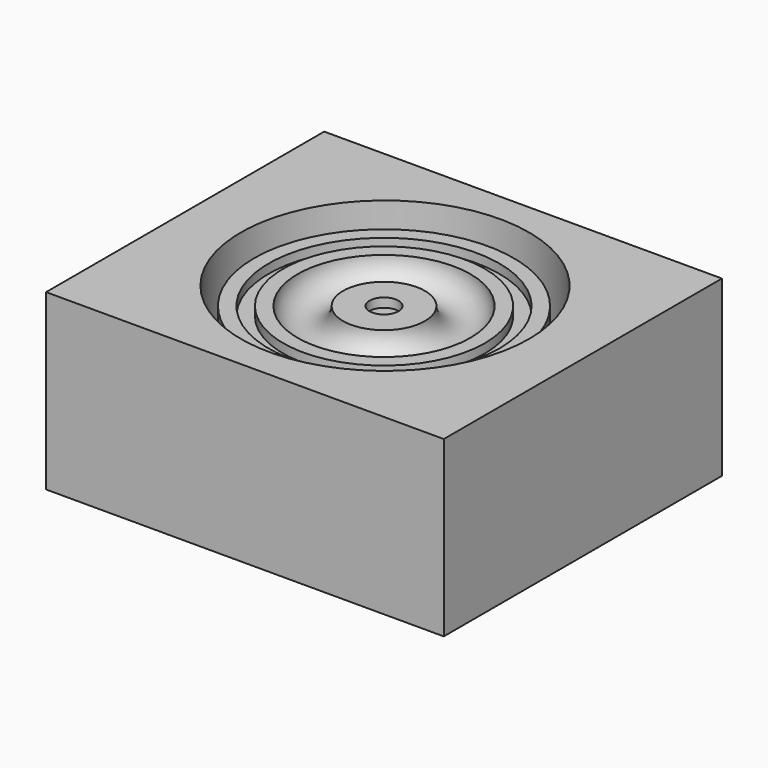
from build123d import *

# Parameters (mm, degrees)
SKETCH003_W = 87.46
SKETCH003_H = 76.45
SKETCH003_R = 31.7
PAD_DEPTH   = 38.21


with BuildPart() as female_shell:
    # Sketch003 → Pad (new body)
    with BuildSketch(Plane.XY):
        Rectangle(SKETCH003_W, SKETCH003_H)
        with Locations((0.217197, 0)):
            Circle(SKETCH003_R, mode=Mode.SUBTRACT)
    extrude(amount=PAD_DEPTH)


with BuildPart() as female_shell_1:
    # Body002 placement: moved
    add(female_shell.part.moved(Location((0, 0, 40))))


with BuildPart() as female_part:
    # Sketch002 → Revolution002 (revolve)
    with BuildSketch(Plane.XZ):
        with BuildLine():
            Line((0, 40), (31.7, 40))
            Line((31.7, 40), (31.7, 64.21))
            Line((28.525, 64.21), (31.7, 64.21))
            Line((28.525, 74.21), (28.525, 64.21))
            Line((28.525, 74.21), (25.35, 74.21))
            Line((25.35, 74.21), (25.35, 72.21))
            Line((25.35, 72.21), (22.175, 72.21))
            Line((22.175, 72.21), (22.175, 74.21))
            Line((22.175, 74.21), (19, 74.21))
            ThreePointArc((9, 74.21), (14, 69.21), (19, 74.21))
            Line((9, 74.21), (3.175, 74.21))
            Line((3.175, 72.21), (3.175, 74.21))
            Line((0, 72.21), (3.175, 72.21))
            Line((0, 72.21), (0, 40))
        make_face()
    revolve(axis=Axis((0, 0, 0), (0, 0, 1)))

    # Boolean: union female-shell
    add(female_shell_1.part)


solid = female_part.part
